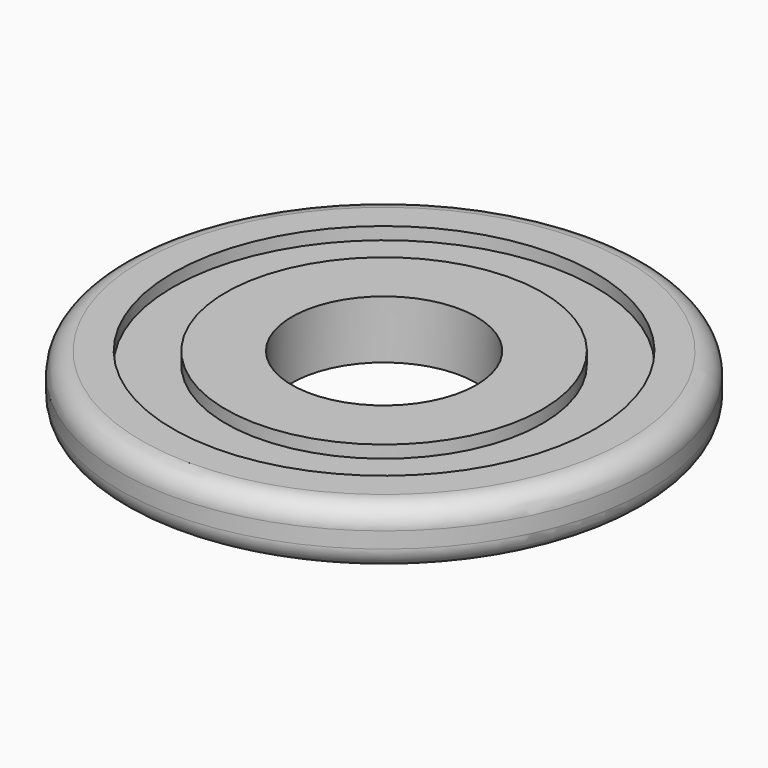
from build123d import *

# Parameters (mm, degrees)
F0_R     = 19.05
F0_R_2   = 11.1
F1_DEPTH = 3.5
F0_R_3   = 31.75
F0_R_4   = 25.4
F2_DEPTH = 2
F3_DEPTH = 0.2
F4_R     = 2.54


with BuildPart() as f1:
    # F0 (on Top) → F1 (new body, symmetric)
    with BuildSketch(Plane.XY):
        Circle(F0_R)
        Circle(F0_R_2, mode=Mode.SUBTRACT)
    extrude(amount=F1_DEPTH, both=True)



with BuildPart() as f1b:
    # F0 (on Top) → F1, piece 2 (new body, symmetric)
    with BuildSketch(Plane.XY):
        Circle(F0_R_3)
        Circle(F0_R_4, mode=Mode.SUBTRACT)
    extrude(amount=F1_DEPTH, both=True)


with BuildPart() as f2:
    # F0 (on Top) → F2 (new body, symmetric)
    with BuildSketch(Plane.XY):
        Circle(F0_R_4)
        Circle(F0_R, mode=Mode.SUBTRACT)
    extrude(amount=F2_DEPTH, both=True)


with BuildPart() as f1_1:
    add(f1.part)

    add(f1b.part)  # F3 merges F1b

    add(f2.part)  # F3 merges F2
    # F0 (on Top) → F3 (join)
    with BuildSketch(Plane.XY):
        Circle(F0_R_4)
        Circle(F0_R, mode=Mode.SUBTRACT)
    extrude(amount=-F3_DEPTH)

    # F4
    f4_edges = [f1_1.edges().sort_by_distance(p)[0] for p in [
        (-31.75, 0, 3.5),
        (-31.75, 0, -3.5),
    ]]
    fillet(f4_edges, radius=F4_R)


solid = f1_1.part
